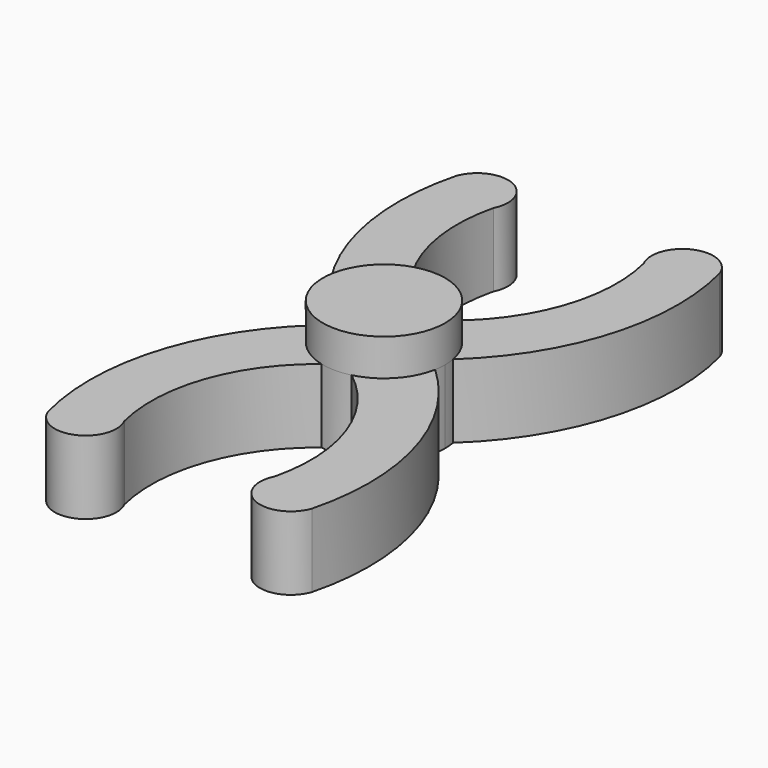
from build123d import *

# Parameters (mm, degrees)
F1_DEPTH      = 2
F2_R          = 1.663036
F3_DEPTH      = 1
F3_DEPTH_BACK = 2


with BuildPart() as f1:
    # F0 (on Top) → F1 (new body)
    with BuildSketch(Plane.XY):
        with BuildLine():
            ThreePointArc((1.001429, 6.28096), (0.788002, 3.471218), (-1.041486, 1.328047))
            ThreePointArc((-1.041486, 1.328047), (-2.870973, 3.471218), (-3.0844, 6.28096))
            ThreePointArc((-3.0844, 6.28096), (-3.50476, 7.432811), (-4.6266, 6.937897))
            ThreePointArc((-4.6266, 6.937897), (-4.499632, 3.128719), (-2.323149, 0))
            ThreePointArc((-2.323149, 0), (-4.499632, -3.128719), (-4.6266, -6.937897))
            ThreePointArc((-4.6266, -6.937897), (-3.50476, -7.432811), (-3.0844, -6.28096))
            ThreePointArc((-3.0844, -6.28096), (-2.870973, -3.471218), (-1.041486, -1.328047))
            ThreePointArc((-1.041486, -1.328047), (0.788002, -3.471218), (1.001429, -6.28096))
            ThreePointArc((1.001429, -6.28096), (1.421789, -7.432811), (2.543628, -6.937897))
            ThreePointArc((2.543628, -6.937897), (2.416661, -3.128719), (0.240178, 0))
            ThreePointArc((0.240178, 0), (2.416661, 3.128719), (2.543628, 6.937897))
            ThreePointArc((2.543628, 6.937897), (1.421789, 7.432811), (1.001429, 6.28096))
        make_face()
    extrude(amount=F1_DEPTH)

    # F2 (on face) → F3 (join, two sides)
    with BuildSketch(Plane.XY.offset(2)) as f3_sk:
        with Locations((-1.041486, 0)):
            Circle(F2_R)
    extrude(amount=F3_DEPTH)
    extrude(f3_sk.sketch, amount=-F3_DEPTH_BACK)


solid = f1.part
